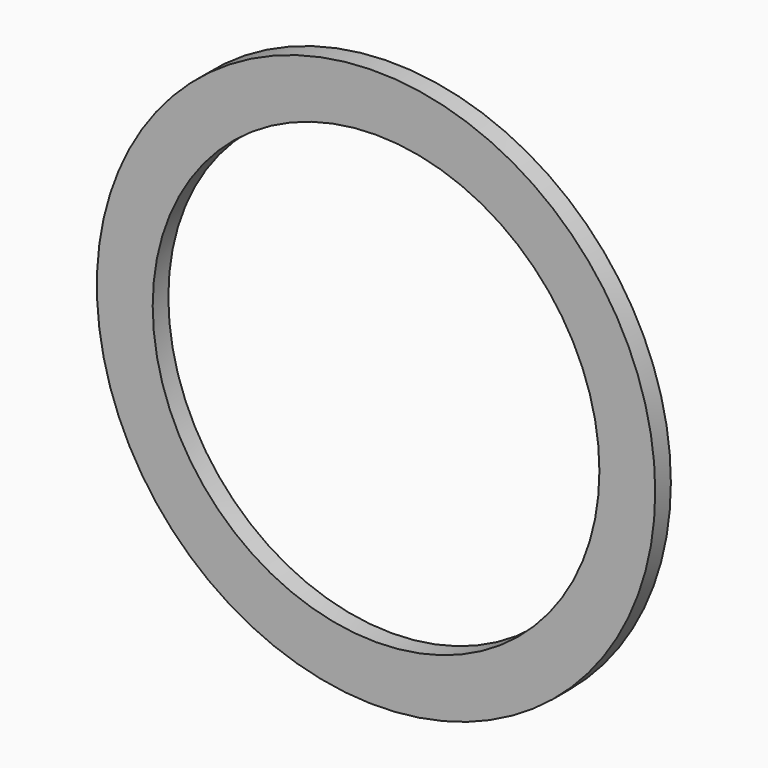
from build123d import *

# Parameters (mm, degrees)
F1_START = -25.4
F0_R     = 127
F1_DEPTH = 8.89
F2_D     = 203.2


with BuildPart() as f1:
    # F0 (on Front) → F1 (new body)
    with BuildSketch(Plane.XZ.offset(F1_START)):
        Circle(F0_R)
    extrude(amount=-F1_DEPTH)

    # F2 (through all)
    with Locations(Plane.XZ):
        with Locations((0, 0)):
            Hole(F2_D / 2)


solid = f1.part
